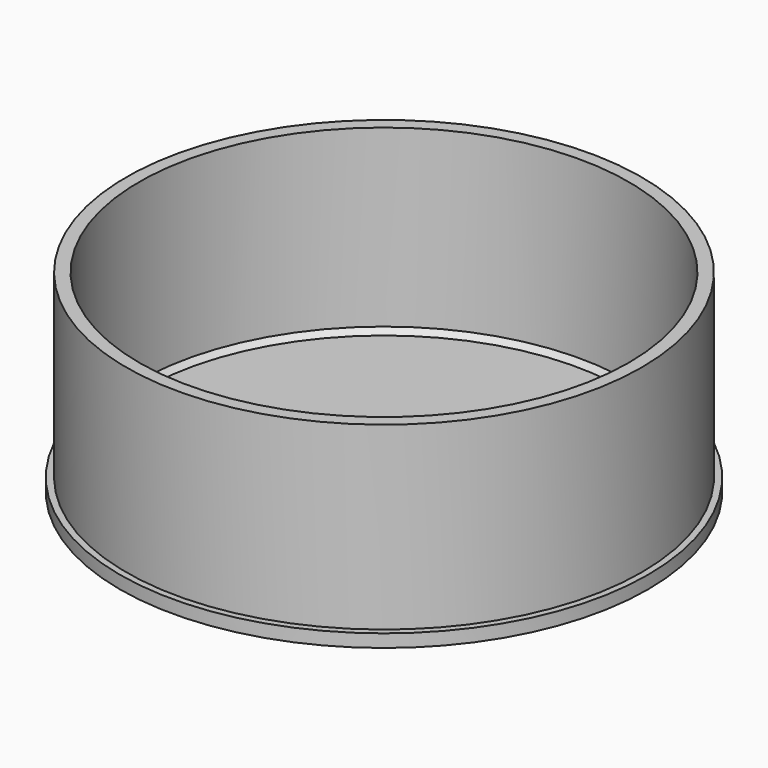
from build123d import *

# Parameters (mm, degrees)
SKETCH_R      = 102.5
PAD_DEPTH     = 5
SKETCH001_R   = 100
SKETCH001_R_2 = 95
PAD001_DEPTH  = 70
CHAMFER_SIZE  = 2


with BuildPart() as part:
    # Sketch → Pad (new body)
    with BuildSketch(Plane.XY):
        Circle(SKETCH_R)
    extrude(amount=PAD_DEPTH)

    # Sketch001 (on DatumPlane) → Pad001 (join)
    with BuildSketch(Plane.XY.offset(5)):
        Circle(SKETCH001_R)
        Circle(SKETCH001_R_2, mode=Mode.SUBTRACT)
    extrude(amount=PAD001_DEPTH)

    # Chamfer
    chamfer_edges = [part.edges().sort_by_distance(p)[0] for p in [
        (-95, 0, 5),
    ]]
    chamfer(chamfer_edges, length=CHAMFER_SIZE)


solid = part.part
